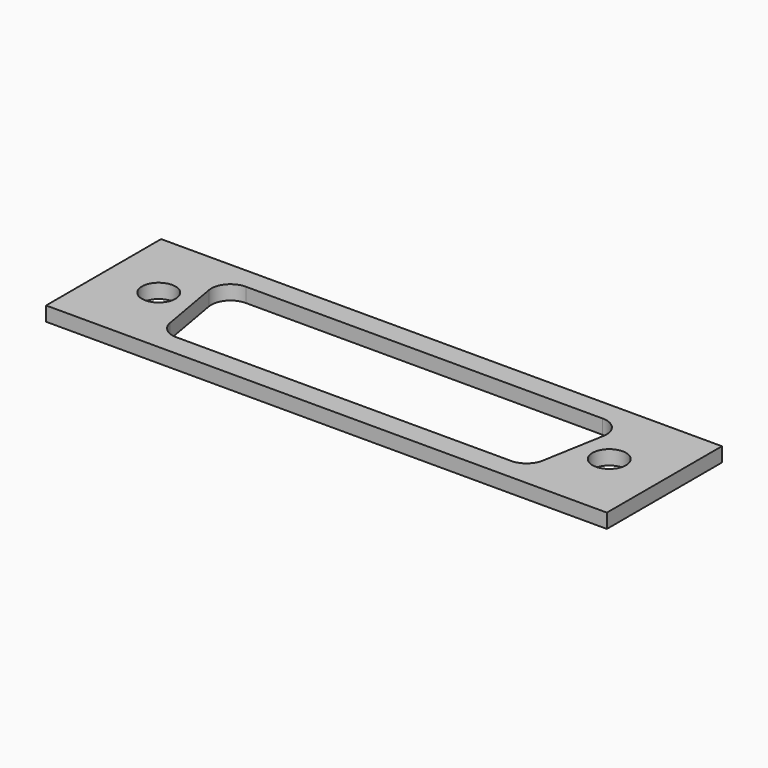
from build123d import *

# Parameters (mm, degrees)
F0_W     = 58.5
F0_H     = 15
F0_R     = 1.75
F1_DEPTH = 1.5
F2_R     = 2


with BuildPart() as f1:
    # F0 (on Top) → F1 (new body)
    with BuildSketch(Plane.XY):
        Rectangle(F0_W, F0_H)
        with Locations((-23.5, 0)):
            Circle(F0_R, mode=Mode.SUBTRACT)
        Polygon((19.148567, -5.25), (-19.148567, -5.25), (-21, 5.25), (21, 5.25), align=None, mode=Mode.SUBTRACT)
        with Locations((23.5, 0)):
            Circle(F0_R, mode=Mode.SUBTRACT)
    extrude(amount=F1_DEPTH)

    # F2
    f2_edges = [f1.edges().sort_by_distance(p)[0] for p in [
        (-21, 5.25, 0.75),
        (-19.148567, -5.25, 0.75),
        (19.148567, -5.25, 0.75),
        (21, 5.25, 0.75),
    ]]
    fillet(f2_edges, radius=F2_R)


solid = f1.part
